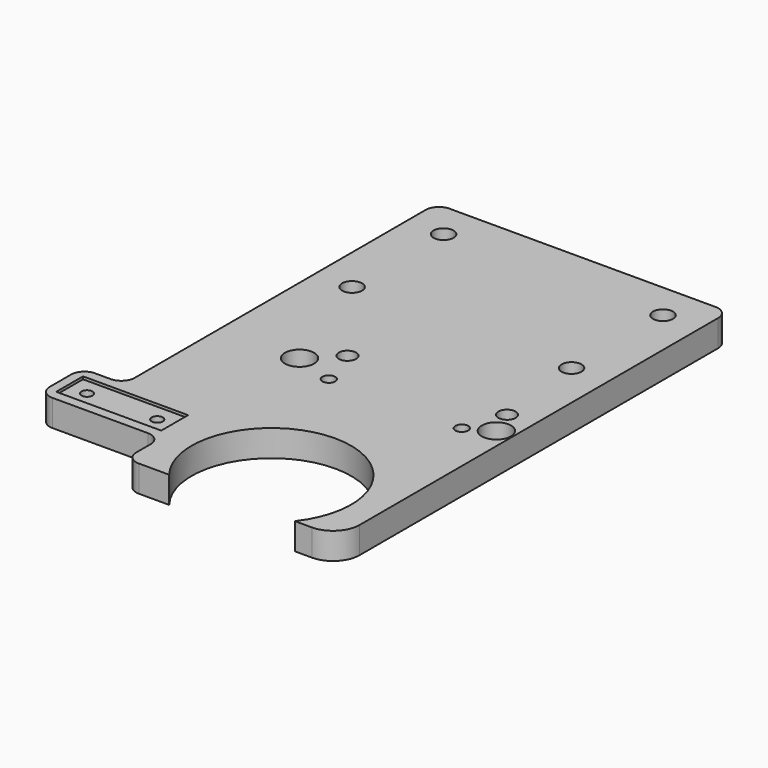
from build123d import *

# Parameters (mm, degrees)
F0_R     = 2.1
F0_R_2   = 5.5
F0_R_3   = 2.4
F0_R_4   = 3.75
F0_R_5   = 3.25
F1_DEPTH = 10
F2_W     = 39.5
F2_H     = 12.6
F2_R     = 2.074687
F2_R_2   = 2.038572
F3_DEPTH = 1


with BuildPart() as f1:
    # F0 (on Top) → F1 (new body)
    with BuildSketch(Plane.XY):
        with BuildLine():
            ThreePointArc((55, 86.75), (53.535534, 90.285534), (50, 91.75))
            Line((50, 91.75), (-50, 91.75))
            ThreePointArc((-50, 91.75), (-53.535534, 90.285534), (-55, 86.75))
            Line((-55, 86.75), (-55, -50))
            ThreePointArc((-55, -50), (-56.464466, -53.535534), (-60, -55))
            Line((-60, -55), (-65.9, -55))
            ThreePointArc((-65.9, -55), (-69.435534, -56.464466), (-70.9, -60))
            Line((-70.9, -60), (-70.9, -70))
            ThreePointArc((-70.9, -70), (-69.435534, -73.535534), (-65.9, -75))
            Line((-65.9, -75), (-60, -75))
            Line((-60, -75), (-30, -75))
            ThreePointArc((-30, -75), (-26.464466, -76.464466), (-25, -80))
            Line((-25, -80), (-25, -86.75))
            ThreePointArc((-25, -86.75), (-23.535534, -90.285534), (-20, -91.75))
            Line((-20, -91.75), (-8.616731, -91.75))
            ThreePointArc((-8.616731, -91.75), (15, -43.25), (38.616731, -91.75))
            Line((38.616731, -91.75), (45, -91.75))
            ThreePointArc((45, -91.75), (52.071068, -88.821068), (55, -81.75))
            Line((55, -81.75), (55, -68.25))
            Line((55, -68.25), (55, 86.75))
        make_face()
        with Locations((-60.9, -65)):
            Circle(F0_R, mode=Mode.SUBTRACT)
        with Locations((-34.5, -65)):
            Circle(F0_R, mode=Mode.SUBTRACT)
        with Locations((-25, -10)):
            Circle(F0_R_2, mode=Mode.SUBTRACT)
        with Locations((-10, -15)):
            Circle(F0_R_3, mode=Mode.SUBTRACT)
        with Locations((40, -15)):
            Circle(F0_R_3, mode=Mode.SUBTRACT)
        with Locations((49, -10)):
            Circle(F0_R_2, mode=Mode.SUBTRACT)
        with Locations((-41.25, 35)):
            Circle(F0_R_4, mode=Mode.SUBTRACT)
        with Locations((-15, 0)):
            Circle(F0_R_5, mode=Mode.SUBTRACT)
        with Locations((-41.25, 78)):
            Circle(F0_R_4, mode=Mode.SUBTRACT)
        with Locations((45, 0)):
            Circle(F0_R_5, mode=Mode.SUBTRACT)
        with Locations((41.25, 35)):
            Circle(F0_R_4, mode=Mode.SUBTRACT)
        with Locations((41.25, 78)):
            Circle(F0_R_4, mode=Mode.SUBTRACT)
    extrude(amount=F1_DEPTH)

    # F2 (on face) → F3 (cut)
    with BuildSketch(Plane.XY.offset(10)):
        with Locations((-47.7, -65)):
            Rectangle(F2_W, F2_H)
        with Locations((-60.9, -65)):
            Circle(F2_R, mode=Mode.SUBTRACT)
        with Locations((-34.5, -65)):
            Circle(F2_R_2, mode=Mode.SUBTRACT)
    extrude(amount=-F3_DEPTH, mode=Mode.SUBTRACT)


solid = f1.part
